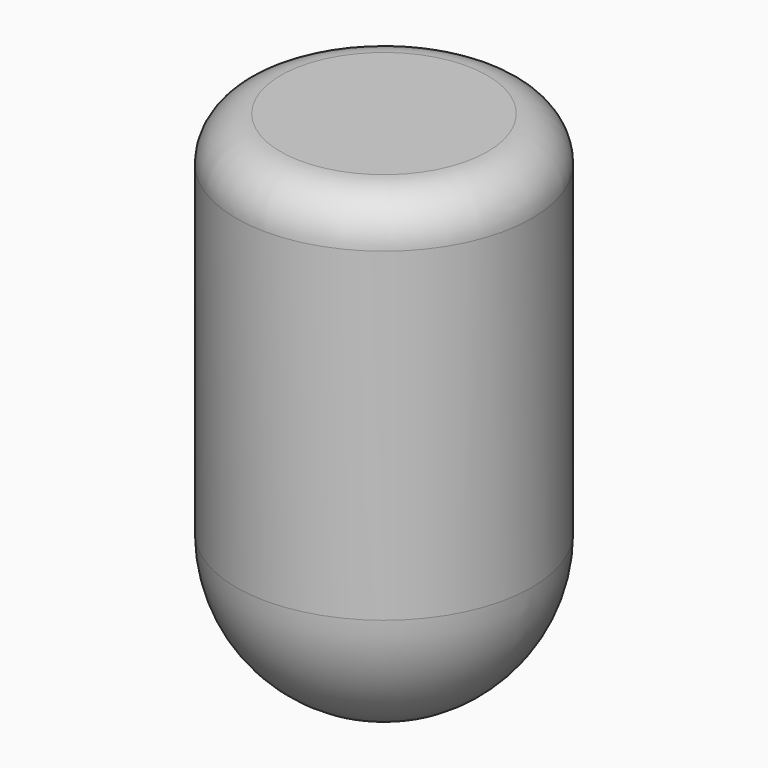
from build123d import *

# Parameters (mm, degrees)
CYLINDER006_R     = 100
CYLINDER006_DEPTH = 350
FILLET011_1_R     = 100
FILLET011_2_R     = 30


with BuildPart() as part:
    # Cylinder006 → Cylinder006 (new body)
    with BuildSketch(Plane(origin=(-350, 0, 1730), x_dir=(1, 0, 0), z_dir=(0, 0, 1))):
        Circle(CYLINDER006_R)
    extrude(amount=CYLINDER006_DEPTH)

    # Fillet011 1
    fillet011_1_edges = [part.edges().sort_by_distance(p)[0] for p in [
        (-450, 0, 1730),
    ]]
    fillet(fillet011_1_edges, radius=FILLET011_1_R)

    # Fillet011 2
    fillet011_2_edges = [part.edges().sort_by_distance(p)[0] for p in [
        (-450, 0, 2080),
    ]]
    fillet(fillet011_2_edges, radius=FILLET011_2_R)


solid = part.part
